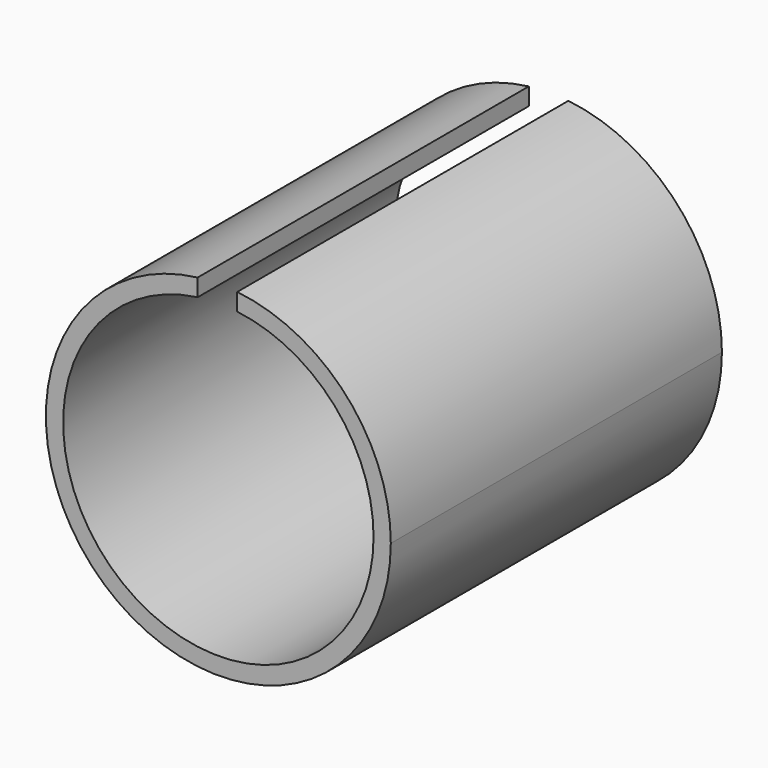
from build123d import *

# Parameters (mm, degrees)
F1_DEPTH = 60


with BuildPart() as f1:
    # F0 (on Front) → F1 (new body)
    with BuildSketch(Plane.XZ):
        with BuildLine():
            ThreePointArc((2.7394399513, 22.3326099853), (16.8506290521, 14.9099396561), (22.5, 0))
            ThreePointArc((22.5, 0), (-14.8113132436, -16.937384686), (-3, 22.299103121))
            Line((-3, 22.299103121), (-3, 24.819347292))
            ThreePointArc((-3, 24.819347292), (-16.5831239518, -18.7082869339), (25, 0))
            ThreePointArc((25, 0), (18.6210364747, 16.6810371563), (2.7394399513, 24.8494561058))
            Line((2.7394399513, 24.8494561058), (2.7394399513, 22.3326099853))
        make_face()
    extrude(amount=F1_DEPTH)


solid = f1.part
